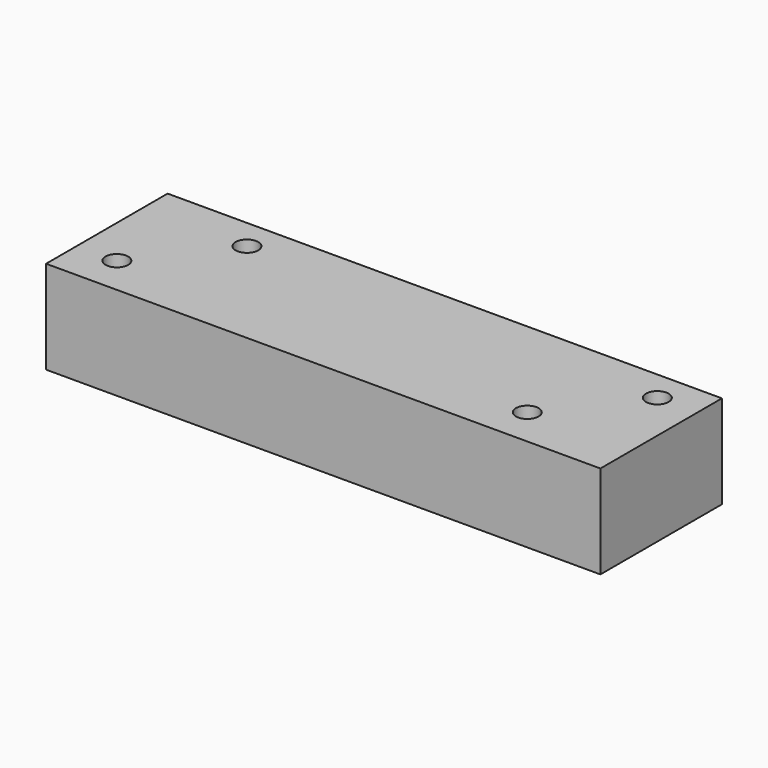
from build123d import *

# Parameters (mm, degrees)
F0_W     = 208
F0_H     = 57
F1_DEPTH = 35
F3_D     = 6.8
F3_DEPTH = 30
F3_TIP   = 2.0429261047
F4_D     = 8.5


with BuildPart() as f1:
    # F0 (on Top) → F1 (new body)
    with BuildSketch(Plane.XY):
        with Locations((104, 28.5)):
            Rectangle(F0_W, F0_H)
    extrude(amount=F1_DEPTH)

    # F3
    with Locations(Plane(origin=(0, 57, 0), x_dir=(-1, 0, 0), z_dir=(0, 1, 0))):
        with Locations((-9.5570590347, 9)):
            Hole(F3_D / 2, depth=F3_DEPTH)
            with Locations((0, 0, -(F3_DEPTH + F3_TIP / 2))):  # 118° drill point
                Cone(0, F3_D / 2, F3_TIP, mode=Mode.SUBTRACT)

    # F4 (through all)
    with Locations(Plane(origin=(0, 0, 0), x_dir=(1, 0, 0), z_dir=(0, 0, -1))):
        with Locations((193, -45.45), (169, -14.45), (39, -45.45), (15, -14.45)):
            Hole(F4_D / 2)


solid = f1.part
